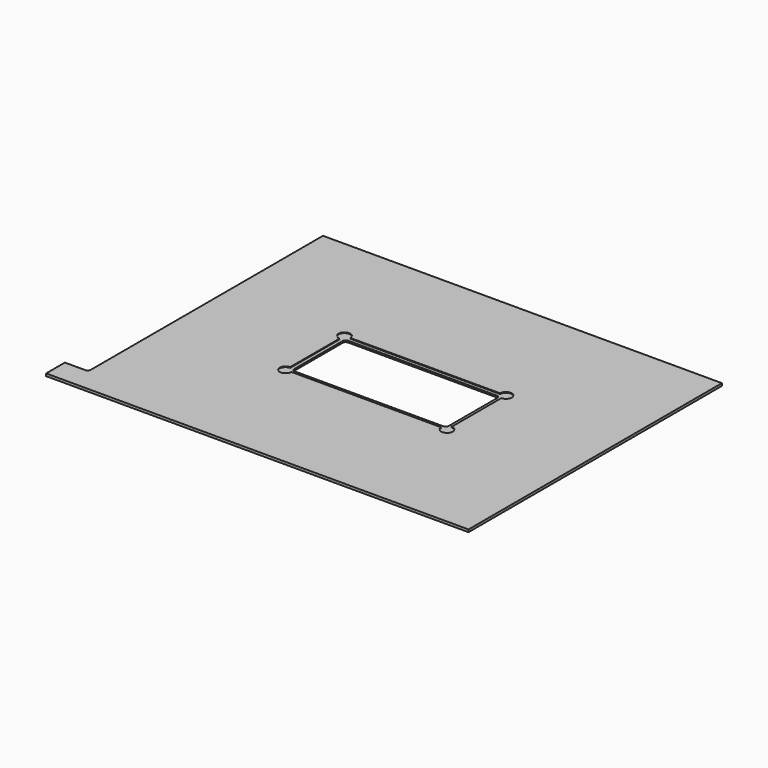
from build123d import *

# Parameters (mm, degrees)
F1_DEPTH = 2.667
F2_R     = 6.985
F3_DEPTH = 1.524
F5_DEPTH = 0.8255
F7_DEPTH = 2.668


with BuildPart() as f1:
    # F0 (on Top) → F1 (new body)
    with BuildSketch(Plane.XY):
        with BuildLine():
            Line((215.9, 171.45), (-215.9, 171.45))
            Line((-215.9, 171.45), (-215.9, -142.875))
            ThreePointArc((-215.9, -142.875), (-216.829936, -145.120064), (-219.075, -146.05))
            Line((-219.075, -146.05), (-241.3, -146.05))
            Line((-241.3, -146.05), (-241.3, -171.45))
            Line((-241.3, -171.45), (215.9, -171.45))
            Line((215.9, -171.45), (215.9, 171.45))
        make_face()
    extrude(amount=F1_DEPTH)

    # F2 (on face) → F3 (cut)
    with BuildSketch(Plane(origin=(0, 0, 0), x_dir=(1, 0, 0), z_dir=(0, 0, -1))):
        with Locations((-196.85, 163.195)):
            Circle(F2_R)
        with Locations((120.65, 163.195)):
            Circle(F2_R)
    extrude(amount=-F3_DEPTH, mode=Mode.SUBTRACT)

    # F4 (on face) → F5 (cut)
    with BuildSketch(Plane.XY.offset(2.667)):
        with BuildLine():
            Line((-81.065625, -39.87), (81.065625, -39.87))
            ThreePointArc((81.065625, -39.87), (91.905753, -44.360128), (87.415625, -33.52))
            Line((87.415625, -33.52), (87.415625, 33.52))
            ThreePointArc((87.415625, 33.52), (91.905753, 44.360128), (81.065625, 39.87))
            Line((81.065625, 39.87), (-81.065625, 39.87))
            ThreePointArc((-81.065625, 39.87), (-91.905753, 44.360128), (-87.415625, 33.52))
            Line((-87.415625, 33.52), (-87.415625, -33.52))
            ThreePointArc((-87.415625, -33.52), (-91.905753, -44.360128), (-81.065625, -39.87))
        make_face()
        with BuildLine():
            Line((-80.430625, 36.06), (80.430625, 36.06))
            ThreePointArc((80.430625, 36.06), (82.675689, 35.130064), (83.605625, 32.885))
            Line((83.605625, 32.885), (83.605625, -32.885))
            ThreePointArc((83.605625, -32.885), (82.675689, -35.130064), (80.430625, -36.06))
            Line((80.430625, -36.06), (-80.430625, -36.06))
            ThreePointArc((-80.430625, -36.06), (-82.675689, -35.130064), (-83.605625, -32.885))
            Line((-83.605625, -32.885), (-83.605625, 32.885))
            ThreePointArc((-83.605625, 32.885), (-82.675689, 35.130064), (-80.430625, 36.06))
        make_face(mode=Mode.SUBTRACT)
    extrude(amount=-F5_DEPTH, mode=Mode.SUBTRACT)

    # F6 (on face) → F7 (cut, through all)
    with BuildSketch(Plane.XY.offset(2.667)):
        with BuildLine():
            Line((83.605625, -32.885), (83.605625, 32.885))
            ThreePointArc((83.605625, 32.885), (82.675689, 35.130064), (80.430625, 36.06))
            Line((80.430625, 36.06), (-80.430625, 36.06))
            ThreePointArc((-80.430625, 36.06), (-82.675689, 35.130064), (-83.605625, 32.885))
            Line((-83.605625, 32.885), (-83.605625, -32.885))
            ThreePointArc((-83.605625, -32.885), (-82.675689, -35.130064), (-80.430625, -36.06))
            Line((-80.430625, -36.06), (80.430625, -36.06))
            ThreePointArc((80.430625, -36.06), (82.675689, -35.130064), (83.605625, -32.885))
        make_face()
    extrude(amount=-F7_DEPTH, mode=Mode.SUBTRACT)


solid = f1.part
